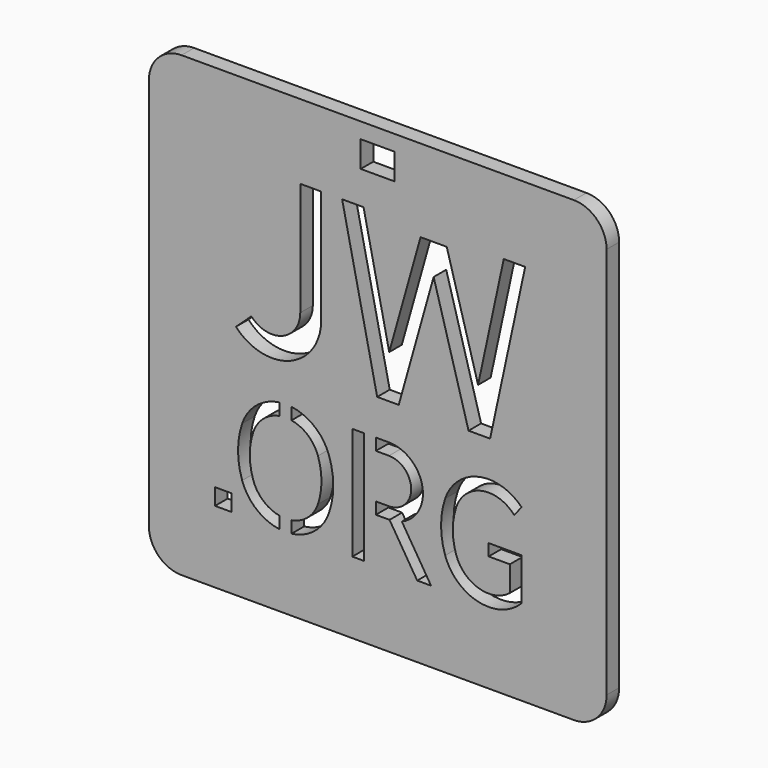
from build123d import *

# Parameters (mm, degrees)
F1_W     = 1.6002
F1_H     = 1.6002
F1_W_2   = 1.142379
F1_H_2   = 10.922
F1_W_3   = 3.302
F1_H_3   = 2.54
F2_DEPTH = 1.524
F3_R     = 3.175


with BuildPart() as f2:
    # F1 (on Front) → F2 (new body)
    with BuildSketch(Plane.XZ):
        with BuildLine():
            ThreePointArc((-13.103278, 47.625), (-7.439488, 43.360512), (-3.175, 37.696722))
            Line((-3.175, 37.696722), (-3.175, 47.625))
            Line((-3.175, 47.625), (-13.103278, 47.625))
        make_face()
        with BuildLine():
            ThreePointArc((-47.625, 13.103278), (-43.360512, 7.439488), (-37.696722, 3.175))
            Line((-37.696722, 3.175), (-13.103278, 3.175))
            ThreePointArc((-13.103278, 3.175), (-7.439488, 7.439488), (-3.175, 13.103278))
            Line((-3.175, 13.103278), (-3.175, 37.696722))
            ThreePointArc((-3.175, 37.696722), (-7.439488, 43.360512), (-13.103278, 47.625))
            Line((-13.103278, 47.625), (-37.696722, 47.625))
            ThreePointArc((-37.696722, 47.625), (-43.360512, 43.360512), (-47.625, 37.696722))
            Line((-47.625, 37.696722), (-47.625, 13.103278))
        make_face()
        with Locations((-40.399718, 10.952067)):
            Rectangle(F1_W, F1_H, mode=Mode.SUBTRACT)
        with BuildLine():
            ThreePointArc((-34.914493, 19.881328), (-36.500967, 19.132292), (-37.482908, 17.678419))
            ThreePointArc((-37.482908, 17.678419), (-37.822793, 15.612967), (-37.482908, 13.547515))
            ThreePointArc((-37.482908, 13.547515), (-36.500967, 12.093642), (-34.914493, 11.344606))
            Line((-34.914493, 11.344606), (-34.914493, 10.188754))
            ThreePointArc((-34.914493, 10.188754), (-37.168718, 11.162006), (-38.565638, 13.181256))
            ThreePointArc((-38.565638, 13.181256), (-38.965793, 15.612967), (-38.565638, 18.044678))
            ThreePointArc((-38.565638, 18.044678), (-37.168718, 20.063928), (-34.914493, 21.037181))
            Line((-34.914493, 21.037181), (-34.914493, 19.881328))
        make_face(mode=Mode.SUBTRACT)
        with BuildLine():
            ThreePointArc((-30.120348, 18.044678), (-29.720193, 15.612967), (-30.120348, 13.181256))
            ThreePointArc((-30.120348, 13.181256), (-31.517268, 11.162006), (-33.771493, 10.188754))
            Line((-33.771493, 10.188754), (-33.771493, 11.344606))
            ThreePointArc((-33.771493, 11.344606), (-32.185019, 12.093642), (-31.203077, 13.547515))
            ThreePointArc((-31.203077, 13.547515), (-30.863193, 15.612967), (-31.203077, 17.678419))
            ThreePointArc((-31.203077, 17.678419), (-32.185019, 19.132292), (-33.771493, 19.881328))
            Line((-33.771493, 19.881328), (-33.771493, 21.037181))
            ThreePointArc((-33.771493, 21.037181), (-31.517268, 20.063928), (-30.120348, 18.044678))
        make_face(mode=Mode.SUBTRACT)
        with Locations((-27.294804, 15.612967)):
            Rectangle(F1_W_2, F1_H_2, mode=Mode.SUBTRACT)
        with BuildLine():
            Line((-23.058243, 14.716427), (-20.218135, 10.151967))
            Line((-20.218135, 10.151967), (-21.564335, 10.151967))
            Line((-21.564335, 10.151967), (-24.251414, 14.470487))
            add(Edge.make_bspline(
                [(-25.580614, 14.470296), (-25.412167, 14.47032), (-24.9691, 14.470384), (-24.526034, 14.470447), (-24.251414, 14.470487)],
                knots=[1.142379, 1.142379, 1.142379, 1.142379, 1.647719, 2.471579, 2.471579, 2.471579, 2.471579], degree=3))
            Line((-25.580614, 14.470296), (-25.580614, 15.613296))
            Line((-25.580614, 15.613296), (-24.2627, 15.613485))
            ThreePointArc((-24.2627, 15.613485), (-22.151123, 17.795615), (-24.309993, 19.930967))
            Line((-24.309993, 19.930967), (-25.580614, 19.930967))
            Line((-25.580614, 19.930967), (-25.580614, 21.073967))
            Line((-25.580614, 21.073967), (-24.309993, 21.073967))
            ThreePointArc((-24.309993, 21.073967), (-21.070194, 18.409858), (-23.058243, 14.716427))
        make_face(mode=Mode.SUBTRACT)
        with BuildLine():
            ThreePointArc((-17.767223, 13.547515), (-15.565822, 11.430607), (-12.567683, 12.012518))
            Line((-12.567683, 12.012518), (-12.567683, 14.469967))
            Line((-12.567683, 14.469967), (-14.627307, 14.469967))
            Line((-14.627307, 14.469967), (-14.627307, 15.612967))
            Line((-14.627307, 15.612967), (-11.424683, 15.612967))
            Line((-11.424683, 15.612967), (-11.424683, 11.508976))
            ThreePointArc((-11.424683, 11.508976), (-15.606715, 10.260892), (-18.849952, 13.181256))
            ThreePointArc((-18.849952, 13.181256), (-19.250107, 15.612967), (-18.849952, 18.044678))
            ThreePointArc((-18.849952, 18.044678), (-15.610848, 20.96411), (-11.430582, 19.72304))
            Line((-11.430582, 19.72304), (-12.141509, 18.808992))
            ThreePointArc((-12.141509, 18.808992), (-15.280389, 19.865993), (-17.767223, 17.678419))
            ThreePointArc((-17.767223, 17.678419), (-18.107107, 15.612967), (-17.767223, 13.547515))
        make_face(mode=Mode.SUBTRACT)
        with BuildLine():
            Line((-30.890982, 40.37965), (-30.890982, 29.35605))
            ThreePointArc((-30.890982, 29.35605), (-33.927344, 24.913031), (-39.169881, 26.127817))
            Line((-39.169881, 26.127817), (-37.674255, 27.503363))
            ThreePointArc((-37.674255, 27.503363), (-34.665555, 26.806195), (-32.922982, 29.35605))
            Line((-32.922982, 29.35605), (-32.922982, 40.37965))
            Line((-32.922982, 40.37965), (-30.890982, 40.37965))
        make_face(mode=Mode.SUBTRACT)
        with Locations((-25.4, 44.831)):
            Rectangle(F1_W_3, F1_H_3, mode=Mode.SUBTRACT)
        Polygon((-28.856911, 40.37965), (-26.778254, 40.37965), (-24.283081, 28.802234), (-21.238982, 39.617483), (-18.698982, 39.617483), (-15.654884, 28.802234), (-13.159711, 40.37965), (-11.081054, 40.37965), (-14.484654, 24.5872), (-16.57946, 24.5872), (-19.968982, 36.629689), (-23.358505, 24.5872), (-25.453311, 24.5872), align=None, mode=Mode.SUBTRACT)
        with BuildLine():
            ThreePointArc((-3.175, 13.103278), (-7.439488, 7.439488), (-13.103278, 3.175))
            Line((-13.103278, 3.175), (-3.175, 3.175))
            Line((-3.175, 3.175), (-3.175, 13.103278))
        make_face()
        with BuildLine():
            Line((-47.625, 47.625), (-47.625, 37.696722))
            ThreePointArc((-47.625, 37.696722), (-43.360512, 43.360512), (-37.696722, 47.625))
            Line((-37.696722, 47.625), (-47.625, 47.625))
        make_face()
        with BuildLine():
            Line((-47.625, 3.175), (-37.696722, 3.175))
            ThreePointArc((-37.696722, 3.175), (-43.360512, 7.439488), (-47.625, 13.103278))
            Line((-47.625, 13.103278), (-47.625, 3.175))
        make_face()
    extrude(amount=F2_DEPTH)

    # F3
    f3_edges = [f2.edges().sort_by_distance(p)[0] for p in [
        (-47.625, -0.762, 47.625),
        (-3.175, -0.762, 47.625),
        (-3.175, -0.762, 3.175),
        (-47.625, -0.762, 3.175),
    ]]
    fillet(f3_edges, radius=F3_R)


solid = f2.part
